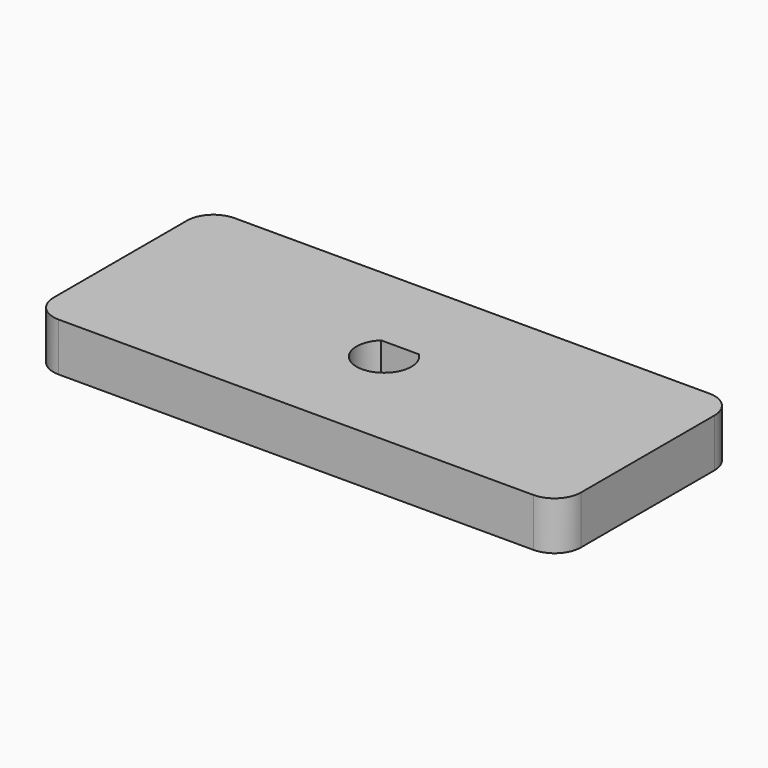
from build123d import *

# Parameters (mm, degrees)
F0_W     = 60
F0_H     = 25
F1_DEPTH = 5.5
F2_R     = 3


with BuildPart() as f1:
    # F0 (on Top) → F1 (new body)
    with BuildSketch(Plane.XY):
        with Locations((30, -12.5)):
            Rectangle(F0_W, F0_H)
        with BuildLine():
            ThreePointArc((32.142429, -10.225), (30, -15.625), (27.857571, -10.225))
            Line((27.857571, -10.225), (32.142429, -10.225))
        make_face(mode=Mode.SUBTRACT)
    extrude(amount=F1_DEPTH)

    # F2
    f2_edges = [f1.edges().sort_by_distance(p)[0] for p in [
        (0, -25, 2.75),
        (60, -25, 2.75),
        (60, 0, 2.75),
        (0, 0, 2.75),
    ]]
    fillet(f2_edges, radius=F2_R)


solid = f1.part
